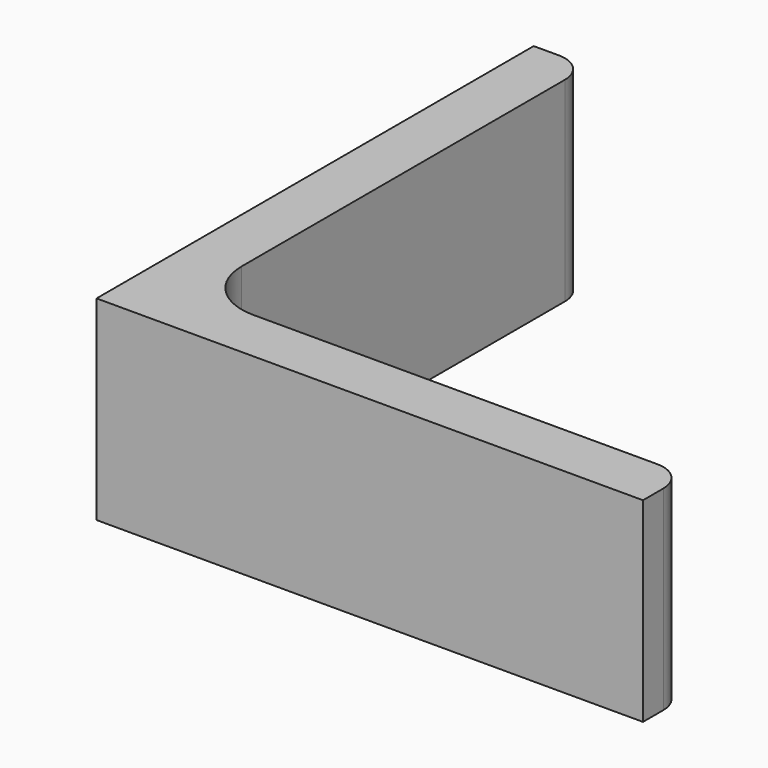
from build123d import *

# Parameters (mm, degrees)
EXTRUDE_DEPTH = 50


with BuildPart() as part:
    # Sketch → Extrude (new body)
    with BuildSketch(Plane.XY):
        with BuildLine():
            Line((0, 0), (140, 0))
            Line((140, 0), (140, 6.5))
            ThreePointArc((140, 6.5), (137.803301, 11.803301), (132.5, 14))
            Line((132.5, 14), (29, 14))
            ThreePointArc((14, 29), (18.393398, 18.393398), (29, 14))
            Line((14, 132.5), (14, 29))
            ThreePointArc((14, 132.5), (11.803301, 137.803301), (6.5, 140))
            Line((0, 140), (6.5, 140))
            Line((0, 0), (0, 140))
        make_face()
    extrude(amount=EXTRUDE_DEPTH)


solid = part.part
